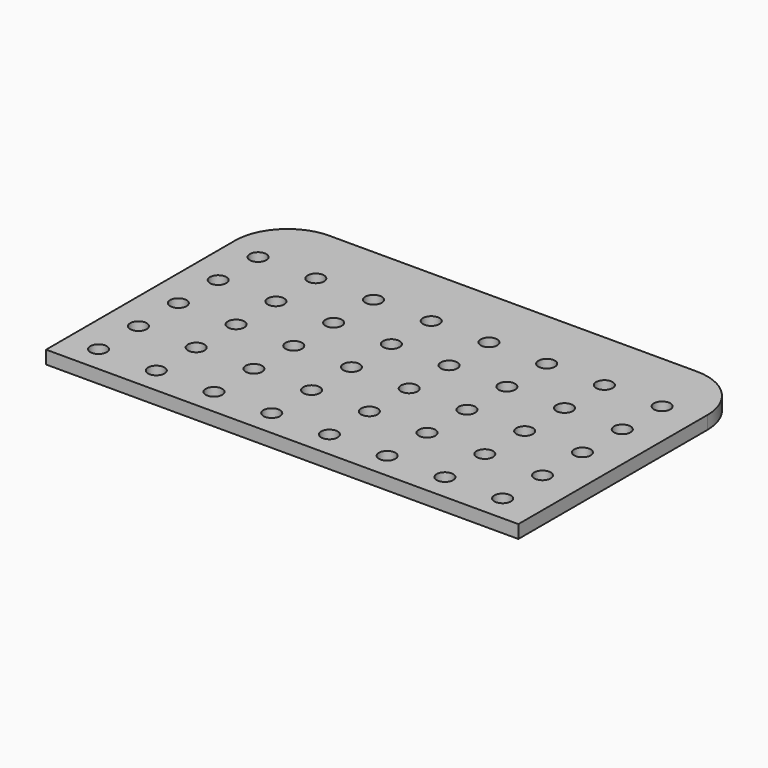
from build123d import *

# Parameters (mm, degrees)
F0_R     = 1.9939
F1_DEPTH = 3.175


with BuildPart() as f1:
    # F0 (on Top) → F1 (new body)
    with BuildSketch(Plane.XY):
        with BuildLine():
            Line((47.61523, 43.880714), (-41.28477, 43.880714))
            ThreePointArc((-41.28477, 43.880714), (-50.265026, 40.16097), (-53.98477, 31.180714))
            Line((-53.98477, 31.180714), (-53.98477, -25.969286))
            Line((-53.98477, -25.969286), (60.31523, -25.969286))
            Line((60.31523, -25.969286), (60.31523, 31.180714))
            ThreePointArc((60.31523, 31.180714), (56.595486, 40.16097), (47.61523, 43.880714))
        make_face()
        with Locations((-46.36477, -19.619286)):
            Circle(F0_R, mode=Mode.SUBTRACT)
        with Locations((-32.39477, -19.619286)):
            Circle(F0_R, mode=Mode.SUBTRACT)
        with Locations((-18.42477, -19.619286)):
            Circle(F0_R, mode=Mode.SUBTRACT)
        with Locations((-4.45477, -19.619286)):
            Circle(F0_R, mode=Mode.SUBTRACT)
        with Locations((-46.36477, -7.554286)):
            Circle(F0_R, mode=Mode.SUBTRACT)
        with Locations((-32.39477, -7.554286)):
            Circle(F0_R, mode=Mode.SUBTRACT)
        with Locations((-46.36477, 4.510714)):
            Circle(F0_R, mode=Mode.SUBTRACT)
        with Locations((-32.39477, 4.510714)):
            Circle(F0_R, mode=Mode.SUBTRACT)
        with Locations((-18.42477, -7.554286)):
            Circle(F0_R, mode=Mode.SUBTRACT)
        with Locations((-4.45477, -7.554286)):
            Circle(F0_R, mode=Mode.SUBTRACT)
        with Locations((-18.42477, 4.510714)):
            Circle(F0_R, mode=Mode.SUBTRACT)
        with Locations((-4.45477, 4.510714)):
            Circle(F0_R, mode=Mode.SUBTRACT)
        with Locations((9.51523, -19.619286)):
            Circle(F0_R, mode=Mode.SUBTRACT)
        with Locations((23.48523, -19.619286)):
            Circle(F0_R, mode=Mode.SUBTRACT)
        with Locations((37.45523, -19.619286)):
            Circle(F0_R, mode=Mode.SUBTRACT)
        with Locations((51.42523, -19.619286)):
            Circle(F0_R, mode=Mode.SUBTRACT)
        with Locations((9.51523, -7.554286)):
            Circle(F0_R, mode=Mode.SUBTRACT)
        with Locations((23.48523, -7.554286)):
            Circle(F0_R, mode=Mode.SUBTRACT)
        with Locations((9.51523, 4.510714)):
            Circle(F0_R, mode=Mode.SUBTRACT)
        with Locations((23.48523, 4.510714)):
            Circle(F0_R, mode=Mode.SUBTRACT)
        with Locations((37.45523, -7.554286)):
            Circle(F0_R, mode=Mode.SUBTRACT)
        with Locations((51.42523, -7.554286)):
            Circle(F0_R, mode=Mode.SUBTRACT)
        with Locations((37.45523, 4.510714)):
            Circle(F0_R, mode=Mode.SUBTRACT)
        with Locations((51.42523, 4.510714)):
            Circle(F0_R, mode=Mode.SUBTRACT)
        with Locations((-46.36477, 16.575714)):
            Circle(F0_R, mode=Mode.SUBTRACT)
        with Locations((-32.39477, 16.575714)):
            Circle(F0_R, mode=Mode.SUBTRACT)
        with Locations((-18.42477, 16.575714)):
            Circle(F0_R, mode=Mode.SUBTRACT)
        with Locations((-4.45477, 16.575714)):
            Circle(F0_R, mode=Mode.SUBTRACT)
        with Locations((-46.36477, 28.640714)):
            Circle(F0_R, mode=Mode.SUBTRACT)
        with Locations((-32.39477, 28.640714)):
            Circle(F0_R, mode=Mode.SUBTRACT)
        with Locations((-18.42477, 28.640714)):
            Circle(F0_R, mode=Mode.SUBTRACT)
        with Locations((-4.45477, 28.640714)):
            Circle(F0_R, mode=Mode.SUBTRACT)
        with Locations((9.51523, 16.575714)):
            Circle(F0_R, mode=Mode.SUBTRACT)
        with Locations((23.48523, 16.575714)):
            Circle(F0_R, mode=Mode.SUBTRACT)
        with Locations((37.45523, 16.575714)):
            Circle(F0_R, mode=Mode.SUBTRACT)
        with Locations((51.42523, 16.575714)):
            Circle(F0_R, mode=Mode.SUBTRACT)
        with Locations((9.51523, 28.640714)):
            Circle(F0_R, mode=Mode.SUBTRACT)
        with Locations((23.48523, 28.640714)):
            Circle(F0_R, mode=Mode.SUBTRACT)
        with Locations((37.45523, 28.640714)):
            Circle(F0_R, mode=Mode.SUBTRACT)
        with Locations((51.42523, 28.640714)):
            Circle(F0_R, mode=Mode.SUBTRACT)
    extrude(amount=F1_DEPTH)


solid = f1.part
